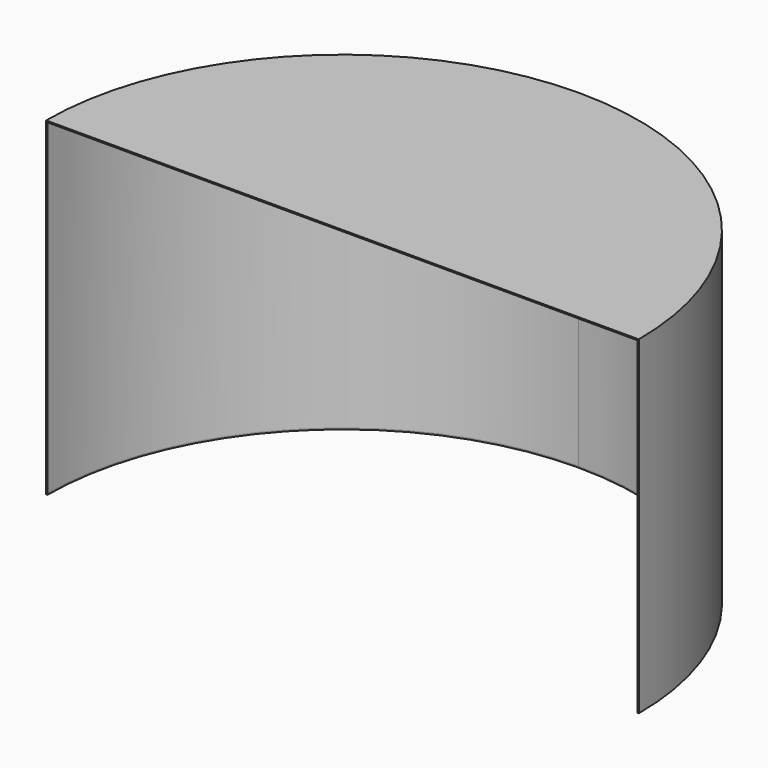
from build123d import *

# Parameters (mm, degrees)
F1_DEPTH = 500
F3_T     = -2
F5_DEPTH = 2


with BuildPart() as f1:
    # F0 (on Top) → F1 (new body)
    with BuildSketch(Plane.XY):
        with BuildLine():
            Line((-450, 0), (0, 0))
            Line((0, 0), (0, 450))
            ThreePointArc((0, 450), (-318.198052, 318.198052), (-450, 0))
        make_face()
    extrude(amount=F1_DEPTH)

    # F2: F1 across plane


with BuildPart() as f1_1:
    add(f1.part)
    add(f1.part.mirror(Plane.YZ))

    # F3
    f3_openings = [f1_1.faces().sort_by_distance(p)[0] for p in [
        (0, 0, 250),
    ]]
    offset(amount=F3_T, openings=f3_openings)

    # F4 (on face) → F5 (cut, through all)
    with BuildSketch(Plane.XY.offset(2)):
        with BuildLine():
            ThreePointArc((448, 0), (0, 448), (-448, 0))
            Line((-448, 0), (448, 0))
        make_face()
    extrude(amount=-F5_DEPTH, mode=Mode.SUBTRACT)


solid = f1_1.part
